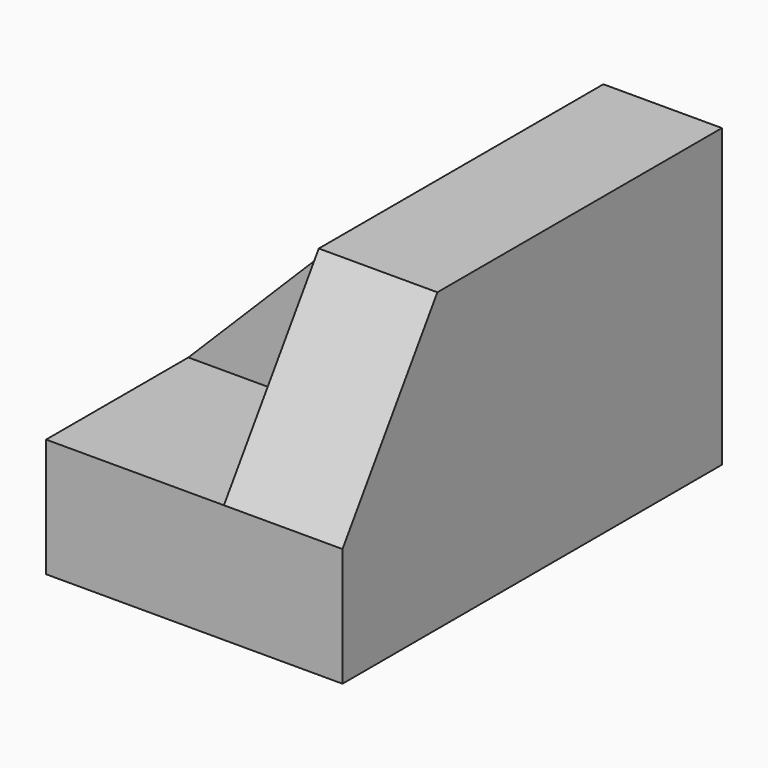
from build123d import *

# Parameters (mm, degrees)
F1_DEPTH = 50.8
F2_W     = 12.7
F2_H     = 19.05
F3_DEPTH = 19.05
F5_DEPTH = 12.7
F7_DEPTH = 12.7


with BuildPart() as f1:
    # F0 (on Front) → F1 (new body)
    with BuildSketch(Plane.XZ):
        Polygon((0, 12.7), (0, 0), (31.75, 0), (31.75, 31.75), (19.05, 31.75), (19.05, 12.7), align=None)
    extrude(amount=F1_DEPTH)

    # F2 (on face) → F3 (join)
    with BuildSketch(Plane(origin=(19.05, 0, 0), x_dir=(0, -1, 0), z_dir=(-1, 0, 0))):
        with Locations((25.4, 22.225)):
            Rectangle(F2_W, F2_H)
    extrude(amount=F3_DEPTH)

    # F4 (on face) → F5 (cut)
    with BuildSketch(Plane.XZ.offset(31.75)):
        Polygon((0, 31.75), (0, 12.7), (19.05, 31.75), align=None)
    extrude(amount=-F5_DEPTH, mode=Mode.SUBTRACT)

    # F6 (on face) → F7 (cut)
    with BuildSketch(Plane(origin=(19.05, 0, 0), x_dir=(0, -1, 0), z_dir=(-1, 0, 0))):
        Polygon((50.8, 31.75), (38.1, 31.75), (50.8, 12.7), align=None)
    extrude(amount=-F7_DEPTH, mode=Mode.SUBTRACT)


solid = f1.part
